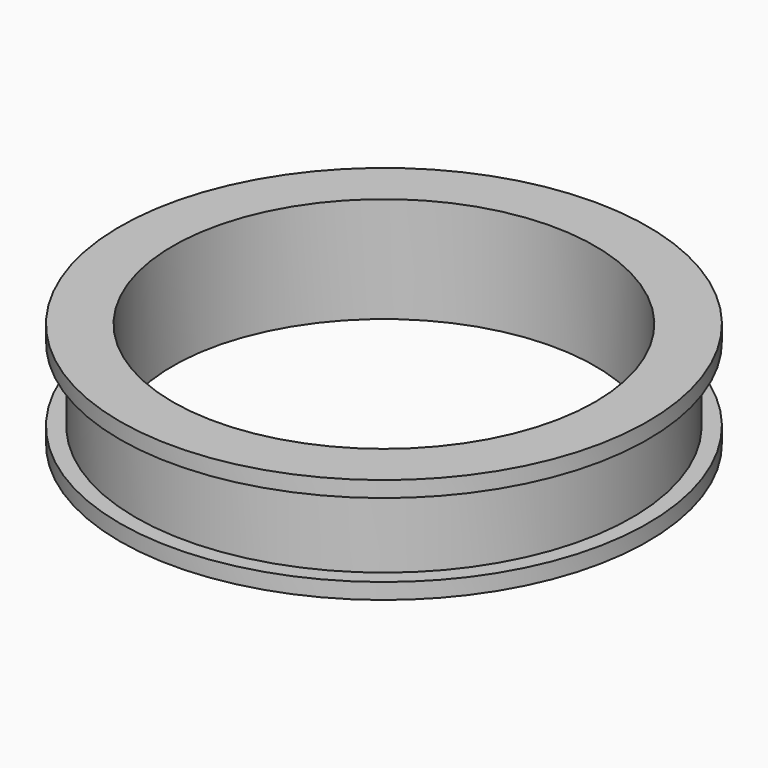
from build123d import *

# Parameters (mm, degrees)
F2_R     = 20
F3_DEPTH = 10.001


with BuildPart() as f1:
    # F0 (on Right) → F1 (revolve)
    with BuildSketch(Plane.YZ):
        Polygon((25, 5), (0, 5), (0, -5), (25, -5), (25, -3.5), (23.5, -3.5), (23.5, 3.5), (25, 3.5), align=None)
    revolve(axis=Axis((0, 0, 0), (0, 0, -1)))

    # F2 (on face) → F3 (cut, through all)
    with BuildSketch(Plane.XY.offset(5)):
        Circle(F2_R)
    extrude(amount=-F3_DEPTH, mode=Mode.SUBTRACT)


solid = f1.part
